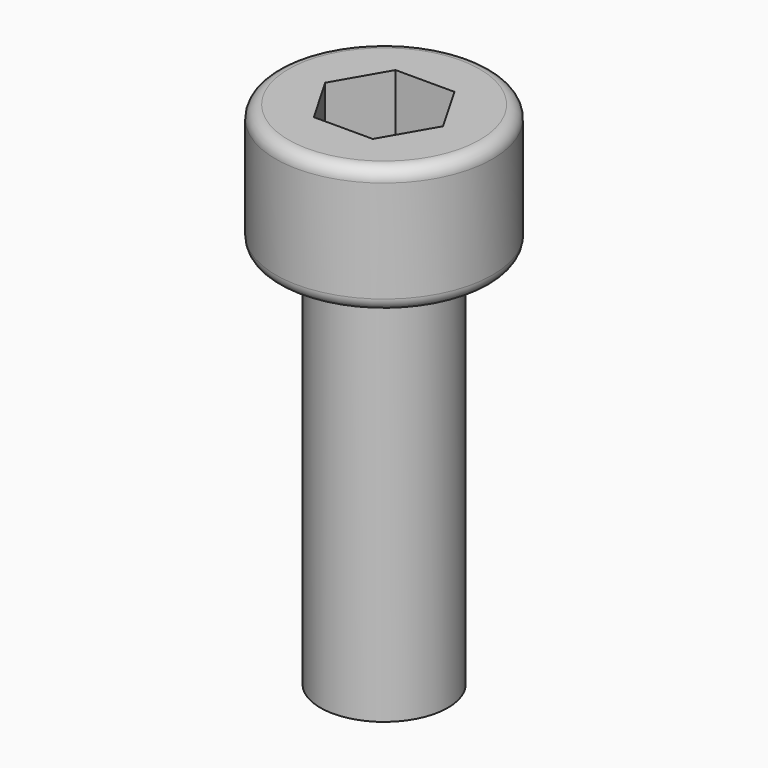
from build123d import *

# Parameters (mm, degrees)
F0_R     = 4.25
F1_DEPTH = 5
F2_R     = 2.5
F3_DEPTH = 15
F5_DEPTH = 3.2
F6_R     = 0.5


with BuildPart() as f1:
    # F0 (on Top) → F1 (new body)
    with BuildSketch(Plane.XY):
        Circle(F0_R)
    extrude(amount=F1_DEPTH)

    # F2 (on face) → F3 (join)
    with BuildSketch(Plane(origin=(0, 0, 0), x_dir=(1, 0, 0), z_dir=(0, 0, -1))):
        Circle(F2_R)
    extrude(amount=F3_DEPTH)

    # F4 (on face) → F5 (cut)
    with BuildSketch(Plane.XY.offset(5)):
        Polygon((-1.154701, -2), (1.154701, -2), (2.309401, 0), (1.154701, 2), (-1.154701, 2), (-2.309401, 0), align=None)
    extrude(amount=-F5_DEPTH, mode=Mode.SUBTRACT)

    # F6
    f6_edges = [f1.edges().sort_by_distance(p)[0] for p in [
        (-4.25, 0, 5),
        (-4.25, 0, 0),
    ]]
    fillet(f6_edges, radius=F6_R)


solid = f1.part
